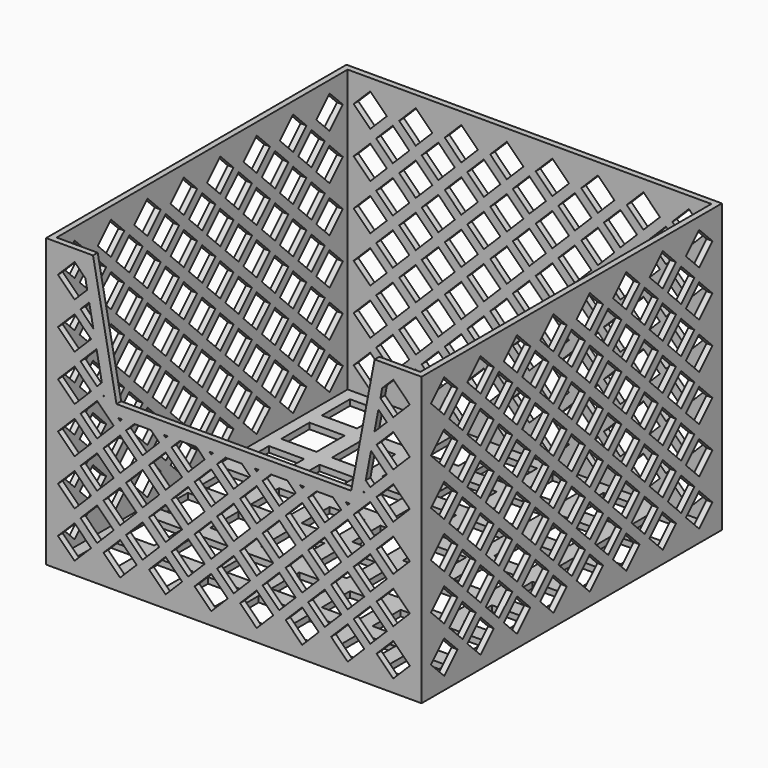
from build123d import *

# Parameters (mm, degrees)
F0_W      = 203.2
F0_H      = 203.2
F1_DEPTH  = 3.175
F2_W      = 203.2
F2_H      = 203.2
F2_W_2    = 196.85
F2_H_2    = 196.85
F3_DEPTH  = 152.4
F5_DEPTH  = 3.175
F7_DEPTH  = 203.201
F9_DEPTH  = 203.201
F11_DEPTH = 203.201
F13_DEPTH = 203.201
F15_DEPTH = 3.175
F16_W     = 19.05
F16_H     = 19.05
F17_DEPTH = 3.176


with BuildPart() as f1:
    # F0 (on Top) → F1 (new body)
    with BuildSketch(Plane.XY):
        Rectangle(F0_W, F0_H)
    extrude(amount=F1_DEPTH)

    # F2 (on face) → F3 (join)
    with BuildSketch(Plane.XY.offset(3.175)):
        Rectangle(F2_W, F2_H)
        Rectangle(F2_W_2, F2_H_2, mode=Mode.SUBTRACT)
    extrude(amount=F3_DEPTH)

    # F4 (on face) → F5 (cut, through all)
    with BuildSketch(Plane.XZ.offset(101.6)):
        Polygon((-63.5, 88.9), (0, 88.9), (63.5, 88.9), (76.2, 155.575), (0, 155.575), (-76.2, 155.575), align=None)
    extrude(amount=-F5_DEPTH, mode=Mode.SUBTRACT)

    # F6 (on face) → F7 (cut, through all)
    with BuildSketch(Plane.YZ.offset(101.6)):
        Polygon((-77.289488, 140.244744), (-86.269744, 149.225), (-95.25, 140.244744), (-86.269744, 131.264488), align=None)
        Polygon((-86.269744, 124.333), (-95.25, 115.352744), (-86.269744, 106.372488), (-77.289488, 115.352744), align=None)
        Polygon((-86.269744, 99.441), (-95.25, 90.460744), (-86.269744, 81.480488), (-77.289488, 90.460744), align=None)
        Polygon((-86.269744, 74.549), (-95.25, 65.568744), (-86.269744, 56.588488), (-77.289488, 65.568744), align=None)
        Polygon((-86.269744, 49.657), (-95.25, 40.676744), (-86.269744, 31.696488), (-77.289488, 40.676744), align=None)
        Polygon((-86.269744, 24.765), (-95.25, 15.784744), (-86.269744, 6.804488), (-77.289488, 15.784744), align=None)
        Polygon((-61.631744, 149.225), (-70.612, 140.244744), (-61.631744, 131.264488), (-52.651488, 140.244744), align=None)
        Polygon((-61.631744, 124.333), (-70.612, 115.352744), (-61.631744, 106.372488), (-52.651488, 115.352744), align=None)
        Polygon((-61.631744, 99.441), (-70.612, 90.460744), (-61.631744, 81.480488), (-52.651488, 90.460744), align=None)
        Polygon((-61.631744, 74.549), (-70.612, 65.568744), (-61.631744, 56.588488), (-52.651488, 65.568744), align=None)
        Polygon((-61.631744, 49.657), (-70.612, 40.676744), (-61.631744, 31.696488), (-52.651488, 40.676744), align=None)
        Polygon((-61.631744, 24.765), (-70.612, 15.784744), (-61.631744, 6.804488), (-52.651488, 15.784744), align=None)
        Polygon((-36.993744, 149.225), (-45.974, 140.244744), (-36.993744, 131.264488), (-28.013488, 140.244744), align=None)
        Polygon((-36.993744, 124.333), (-45.974, 115.352744), (-36.993744, 106.372488), (-28.013488, 115.352744), align=None)
        Polygon((-36.993744, 99.441), (-45.974, 90.460744), (-36.993744, 81.480488), (-28.013488, 90.460744), align=None)
        Polygon((-36.993744, 74.549), (-45.974, 65.568744), (-36.993744, 56.588488), (-28.013488, 65.568744), align=None)
        Polygon((-36.993744, 49.657), (-45.974, 40.676744), (-36.993744, 31.696488), (-28.013488, 40.676744), align=None)
        Polygon((-36.993744, 24.765), (-45.974, 15.784744), (-36.993744, 6.804488), (-28.013488, 15.784744), align=None)
        Polygon((-12.355744, 149.225), (-21.336, 140.244744), (-12.355744, 131.264488), (-3.375488, 140.244744), align=None)
        Polygon((-12.355744, 124.333), (-21.336, 115.352744), (-12.355744, 106.372488), (-3.375488, 115.352744), align=None)
        Polygon((-12.355744, 99.441), (-21.336, 90.460744), (-12.355744, 81.480488), (-3.375488, 90.460744), align=None)
        Polygon((-12.355744, 74.549), (-21.336, 65.568744), (-12.355744, 56.588488), (-3.375488, 65.568744), align=None)
        Polygon((-12.355744, 49.657), (-21.336, 40.676744), (-12.355744, 31.696488), (-3.375488, 40.676744), align=None)
        Polygon((-12.355744, 24.765), (-21.336, 15.784744), (-12.355744, 6.804488), (-3.375488, 15.784744), align=None)
        Polygon((12.282256, 149.225), (3.302, 140.244744), (12.282256, 131.264488), (21.262512, 140.244744), align=None)
        Polygon((12.282256, 124.333), (3.302, 115.352744), (12.282256, 106.372488), (21.262512, 115.352744), align=None)
        Polygon((12.282256, 99.441), (3.302, 90.460744), (12.282256, 81.480488), (21.262512, 90.460744), align=None)
        Polygon((12.282256, 74.549), (3.302, 65.568744), (12.282256, 56.588488), (21.262512, 65.568744), align=None)
        Polygon((12.282256, 49.657), (3.302, 40.676744), (12.282256, 31.696488), (21.262512, 40.676744), align=None)
        Polygon((12.282256, 24.765), (3.302, 15.784744), (12.282256, 6.804488), (21.262512, 15.784744), align=None)
        Polygon((36.920256, 149.225), (27.94, 140.244744), (36.920256, 131.264488), (45.900512, 140.244744), align=None)
        Polygon((36.920256, 124.333), (27.94, 115.352744), (36.920256, 106.372488), (45.900512, 115.352744), align=None)
        Polygon((36.920256, 99.441), (27.94, 90.460744), (36.920256, 81.480488), (45.900512, 90.460744), align=None)
        Polygon((36.920256, 74.549), (27.94, 65.568744), (36.920256, 56.588488), (45.900512, 65.568744), align=None)
        Polygon((36.920256, 49.657), (27.94, 40.676744), (36.920256, 31.696488), (45.900512, 40.676744), align=None)
        Polygon((36.920256, 24.765), (27.94, 15.784744), (36.920256, 6.804488), (45.900512, 15.784744), align=None)
        Polygon((61.558256, 149.225), (52.578, 140.244744), (61.558256, 131.264488), (70.538512, 140.244744), align=None)
        Polygon((61.558256, 124.333), (52.578, 115.352744), (61.558256, 106.372488), (70.538512, 115.352744), align=None)
        Polygon((61.558256, 99.441), (52.578, 90.460744), (61.558256, 81.480488), (70.538512, 90.460744), align=None)
        Polygon((61.558256, 74.549), (52.578, 65.568744), (61.558256, 56.588488), (70.538512, 65.568744), align=None)
        Polygon((61.558256, 49.657), (52.578, 40.676744), (61.558256, 31.696488), (70.538512, 40.676744), align=None)
        Polygon((61.558256, 24.765), (52.578, 15.784744), (61.558256, 6.804488), (70.538512, 15.784744), align=None)
        Polygon((86.196256, 149.225), (77.216, 140.244744), (86.196256, 131.264488), (95.176512, 140.244744), align=None)
        Polygon((86.196256, 124.333), (77.216, 115.352744), (86.196256, 106.372488), (95.176512, 115.352744), align=None)
        Polygon((86.196256, 99.441), (77.216, 90.460744), (86.196256, 81.480488), (95.176512, 90.460744), align=None)
        Polygon((86.196256, 74.549), (77.216, 65.568744), (86.196256, 56.588488), (95.176512, 65.568744), align=None)
        Polygon((86.196256, 49.657), (77.216, 40.676744), (86.196256, 31.696488), (95.176512, 40.676744), align=None)
        Polygon((86.196256, 24.765), (77.216, 15.784744), (86.196256, 6.804488), (95.176512, 15.784744), align=None)
    extrude(amount=-F7_DEPTH, mode=Mode.SUBTRACT)

    # F8 (on face) → F9 (cut, through all)
    with BuildSketch(Plane(origin=(0, 101.6, 0), x_dir=(-1, 0, 0), z_dir=(0, 1, 0))):
        Polygon((-64.843488, 127.798744), (-73.823744, 136.779), (-82.804, 127.798744), (-73.823744, 118.818488), align=None)
        Polygon((-73.823744, 93.926488), (-64.843488, 102.906744), (-73.823744, 111.887), (-82.804, 102.906744), align=None)
        Polygon((-73.823744, 69.034488), (-64.843488, 78.014744), (-73.823744, 86.995), (-82.804, 78.014744), align=None)
        Polygon((-73.823744, 44.142488), (-64.843488, 53.122744), (-73.823744, 62.103), (-82.804, 53.122744), align=None)
        Polygon((-73.823744, 19.250488), (-64.843488, 28.230744), (-73.823744, 37.211), (-82.804, 28.230744), align=None)
        Polygon((-49.185744, 118.818488), (-40.205488, 127.798744), (-49.185744, 136.779), (-58.166, 127.798744), align=None)
        Polygon((-49.185744, 93.926488), (-40.205488, 102.906744), (-49.185744, 111.887), (-58.166, 102.906744), align=None)
        Polygon((-49.185744, 69.034488), (-40.205488, 78.014744), (-49.185744, 86.995), (-58.166, 78.014744), align=None)
        Polygon((-49.185744, 44.142488), (-40.205488, 53.122744), (-49.185744, 62.103), (-58.166, 53.122744), align=None)
        Polygon((-49.185744, 19.250488), (-40.205488, 28.230744), (-49.185744, 37.211), (-58.166, 28.230744), align=None)
        Polygon((-24.547744, 118.818488), (-15.567488, 127.798744), (-24.547744, 136.779), (-33.528, 127.798744), align=None)
        Polygon((-24.547744, 93.926488), (-15.567488, 102.906744), (-24.547744, 111.887), (-33.528, 102.906744), align=None)
        Polygon((-24.547744, 69.034488), (-15.567488, 78.014744), (-24.547744, 86.995), (-33.528, 78.014744), align=None)
        Polygon((-24.547744, 44.142488), (-15.567488, 53.122744), (-24.547744, 62.103), (-33.528, 53.122744), align=None)
        Polygon((-24.547744, 19.250488), (-15.567488, 28.230744), (-24.547744, 37.211), (-33.528, 28.230744), align=None)
        Polygon((0.090256, 118.818488), (9.070512, 127.798744), (0.090256, 136.779), (-8.89, 127.798744), align=None)
        Polygon((0.090256, 93.926488), (9.070512, 102.906744), (0.090256, 111.887), (-8.89, 102.906744), align=None)
        Polygon((0.090256, 69.034488), (9.070512, 78.014744), (0.090256, 86.995), (-8.89, 78.014744), align=None)
        Polygon((0.090256, 44.142488), (9.070512, 53.122744), (0.090256, 62.103), (-8.89, 53.122744), align=None)
        Polygon((0.090256, 19.250488), (9.070512, 28.230744), (0.090256, 37.211), (-8.89, 28.230744), align=None)
        Polygon((24.728256, 118.818488), (33.708512, 127.798744), (24.728256, 136.779), (15.748, 127.798744), align=None)
        Polygon((24.728256, 93.926488), (33.708512, 102.906744), (24.728256, 111.887), (15.748, 102.906744), align=None)
        Polygon((24.728256, 69.034488), (33.708512, 78.014744), (24.728256, 86.995), (15.748, 78.014744), align=None)
        Polygon((24.728256, 44.142488), (33.708512, 53.122744), (24.728256, 62.103), (15.748, 53.122744), align=None)
        Polygon((24.728256, 19.250488), (33.708512, 28.230744), (24.728256, 37.211), (15.748, 28.230744), align=None)
        Polygon((49.366256, 118.818488), (58.346512, 127.798744), (49.366256, 136.779), (40.386, 127.798744), align=None)
        Polygon((49.366256, 93.926488), (58.346512, 102.906744), (49.366256, 111.887), (40.386, 102.906744), align=None)
        Polygon((49.366256, 69.034488), (58.346512, 78.014744), (49.366256, 86.995), (40.386, 78.014744), align=None)
        Polygon((49.366256, 44.142488), (58.346512, 53.122744), (49.366256, 62.103), (40.386, 53.122744), align=None)
        Polygon((49.366256, 19.250488), (58.346512, 28.230744), (49.366256, 37.211), (40.386, 28.230744), align=None)
        Polygon((74.004256, 118.818488), (82.984512, 127.798744), (74.004256, 136.779), (65.024, 127.798744), align=None)
        Polygon((74.004256, 93.926488), (82.984512, 102.906744), (74.004256, 111.887), (65.024, 102.906744), align=None)
        Polygon((74.004256, 69.034488), (82.984512, 78.014744), (74.004256, 86.995), (65.024, 78.014744), align=None)
        Polygon((74.004256, 44.142488), (82.984512, 53.122744), (74.004256, 62.103), (65.024, 53.122744), align=None)
        Polygon((74.004256, 19.250488), (82.984512, 28.230744), (74.004256, 37.211), (65.024, 28.230744), align=None)
    extrude(amount=-F9_DEPTH, mode=Mode.SUBTRACT)

    # F10 (on face) → F11 (cut, through all)
    with BuildSketch(Plane(origin=(0, 101.6, 0), x_dir=(-1, 0, 0), z_dir=(0, 1, 0))):
        Polygon((-77.289488, 140.244744), (-86.269744, 149.225), (-95.25, 140.244744), (-86.269744, 131.264488), align=None)
        Polygon((-95.25, 115.352744), (-86.269744, 106.372488), (-77.289488, 115.352744), (-86.269744, 124.333), align=None)
        Polygon((-95.25, 90.460744), (-86.269744, 81.480488), (-77.289488, 90.460744), (-86.269744, 99.441), align=None)
        Polygon((-95.25, 65.568744), (-86.269744, 56.588488), (-77.289488, 65.568744), (-86.269744, 74.549), align=None)
        Polygon((-95.25, 40.676744), (-86.269744, 31.696488), (-77.289488, 40.676744), (-86.269744, 49.657), align=None)
        Polygon((-95.25, 15.784744), (-86.269744, 6.804488), (-77.289488, 15.784744), (-86.269744, 24.765), align=None)
        Polygon((-70.612, 140.244744), (-61.631744, 131.264488), (-52.651488, 140.244744), (-61.631744, 149.225), align=None)
        Polygon((-70.612, 115.352744), (-61.631744, 106.372488), (-52.651488, 115.352744), (-61.631744, 124.333), align=None)
        Polygon((-70.612, 90.460744), (-61.631744, 81.480488), (-52.651488, 90.460744), (-61.631744, 99.441), align=None)
        Polygon((-70.612, 65.568744), (-61.631744, 56.588488), (-52.651488, 65.568744), (-61.631744, 74.549), align=None)
        Polygon((-70.612, 40.676744), (-61.631744, 31.696488), (-52.651488, 40.676744), (-61.631744, 49.657), align=None)
        Polygon((-70.612, 15.784744), (-61.631744, 6.804488), (-52.651488, 15.784744), (-61.631744, 24.765), align=None)
        Polygon((-45.974, 140.244744), (-36.993744, 131.264488), (-28.013488, 140.244744), (-36.993744, 149.225), align=None)
        Polygon((-45.974, 115.352744), (-36.993744, 106.372488), (-28.013488, 115.352744), (-36.993744, 124.333), align=None)
        Polygon((-45.974, 90.460744), (-36.993744, 81.480488), (-28.013488, 90.460744), (-36.993744, 99.441), align=None)
        Polygon((-45.974, 65.568744), (-36.993744, 56.588488), (-28.013488, 65.568744), (-36.993744, 74.549), align=None)
        Polygon((-45.974, 40.676744), (-36.993744, 31.696488), (-28.013488, 40.676744), (-36.993744, 49.657), align=None)
        Polygon((-45.974, 15.784744), (-36.993744, 6.804488), (-28.013488, 15.784744), (-36.993744, 24.765), align=None)
        Polygon((-21.336, 140.244744), (-12.355744, 131.264488), (-3.375488, 140.244744), (-12.355744, 149.225), align=None)
        Polygon((-21.336, 115.352744), (-12.355744, 106.372488), (-3.375488, 115.352744), (-12.355744, 124.333), align=None)
        Polygon((-21.336, 90.460744), (-12.355744, 81.480488), (-3.375488, 90.460744), (-12.355744, 99.441), align=None)
        Polygon((-21.336, 65.568744), (-12.355744, 56.588488), (-3.375488, 65.568744), (-12.355744, 74.549), align=None)
        Polygon((-21.336, 40.676744), (-12.355744, 31.696488), (-3.375488, 40.676744), (-12.355744, 49.657), align=None)
        Polygon((-21.336, 15.784744), (-12.355744, 6.804488), (-3.375488, 15.784744), (-12.355744, 24.765), align=None)
        Polygon((3.302, 140.244744), (12.282256, 131.264488), (21.262512, 140.244744), (12.282256, 149.225), align=None)
        Polygon((3.302, 115.352744), (12.282256, 106.372488), (21.262512, 115.352744), (12.282256, 124.333), align=None)
        Polygon((3.302, 90.460744), (12.282256, 81.480488), (21.262512, 90.460744), (12.282256, 99.441), align=None)
        Polygon((3.302, 65.568744), (12.282256, 56.588488), (21.262512, 65.568744), (12.282256, 74.549), align=None)
        Polygon((3.302, 40.676744), (12.282256, 31.696488), (21.262512, 40.676744), (12.282256, 49.657), align=None)
        Polygon((3.302, 15.784744), (12.282256, 6.804488), (21.262512, 15.784744), (12.282256, 24.765), align=None)
        Polygon((27.94, 140.244744), (36.920256, 131.264488), (45.900512, 140.244744), (36.920256, 149.225), align=None)
        Polygon((27.94, 115.352744), (36.920256, 106.372488), (45.900512, 115.352744), (36.920256, 124.333), align=None)
        Polygon((27.94, 90.460744), (36.920256, 81.480488), (45.900512, 90.460744), (36.920256, 99.441), align=None)
        Polygon((27.94, 65.568744), (36.920256, 56.588488), (45.900512, 65.568744), (36.920256, 74.549), align=None)
        Polygon((27.94, 40.676744), (36.920256, 31.696488), (45.900512, 40.676744), (36.920256, 49.657), align=None)
        Polygon((27.94, 15.784744), (36.920256, 6.804488), (45.900512, 15.784744), (36.920256, 24.765), align=None)
        Polygon((52.578, 140.244744), (61.558256, 131.264488), (70.538512, 140.244744), (61.558256, 149.225), align=None)
        Polygon((52.578, 115.352744), (61.558256, 106.372488), (70.538512, 115.352744), (61.558256, 124.333), align=None)
        Polygon((52.578, 90.460744), (61.558256, 81.480488), (70.538512, 90.460744), (61.558256, 99.441), align=None)
        Polygon((52.578, 65.568744), (61.558256, 56.588488), (70.538512, 65.568744), (61.558256, 74.549), align=None)
        Polygon((52.578, 40.676744), (61.558256, 31.696488), (70.538512, 40.676744), (61.558256, 49.657), align=None)
        Polygon((52.578, 15.784744), (61.558256, 6.804488), (70.538512, 15.784744), (61.558256, 24.765), align=None)
        Polygon((77.216, 140.244744), (86.196256, 131.264488), (95.176512, 140.244744), (86.196256, 149.225), align=None)
        Polygon((77.216, 115.352744), (86.196256, 106.372488), (95.176512, 115.352744), (86.196256, 124.333), align=None)
        Polygon((77.216, 90.460744), (86.196256, 81.480488), (95.176512, 90.460744), (86.196256, 99.441), align=None)
        Polygon((77.216, 65.568744), (86.196256, 56.588488), (95.176512, 65.568744), (86.196256, 74.549), align=None)
        Polygon((77.216, 40.676744), (86.196256, 31.696488), (95.176512, 40.676744), (86.196256, 49.657), align=None)
        Polygon((77.216, 15.784744), (86.196256, 6.804488), (95.176512, 15.784744), (86.196256, 24.765), align=None)
    extrude(amount=-F11_DEPTH, mode=Mode.SUBTRACT)

    # F12 (on face) → F13 (cut, through all)
    with BuildSketch(Plane.YZ.offset(101.6)):
        Polygon((-64.843488, 127.798744), (-73.823744, 136.779), (-82.804, 127.798744), (-73.823744, 118.818488), align=None)
        Polygon((-73.823744, 111.887), (-82.804, 102.906744), (-73.823744, 93.926488), (-64.843488, 102.906744), align=None)
        Polygon((-73.823744, 86.995), (-82.804, 78.014744), (-73.823744, 69.034488), (-64.843488, 78.014744), align=None)
        Polygon((-73.823744, 62.103), (-82.804, 53.122744), (-73.823744, 44.142488), (-64.843488, 53.122744), align=None)
        Polygon((-73.823744, 37.211), (-82.804, 28.230744), (-73.823744, 19.250488), (-64.843488, 28.230744), align=None)
        Polygon((-49.185744, 136.779), (-58.166, 127.798744), (-49.185744, 118.818488), (-40.205488, 127.798744), align=None)
        Polygon((-49.185744, 111.887), (-58.166, 102.906744), (-49.185744, 93.926488), (-40.205488, 102.906744), align=None)
        Polygon((-49.185744, 86.995), (-58.166, 78.014744), (-49.185744, 69.034488), (-40.205488, 78.014744), align=None)
        Polygon((-49.185744, 62.103), (-58.166, 53.122744), (-49.185744, 44.142488), (-40.205488, 53.122744), align=None)
        Polygon((-49.185744, 37.211), (-58.166, 28.230744), (-49.185744, 19.250488), (-40.205488, 28.230744), align=None)
        Polygon((-24.547744, 136.779), (-33.528, 127.798744), (-24.547744, 118.818488), (-15.567488, 127.798744), align=None)
        Polygon((-24.547744, 111.887), (-33.528, 102.906744), (-24.547744, 93.926488), (-15.567488, 102.906744), align=None)
        Polygon((-24.547744, 86.995), (-33.528, 78.014744), (-24.547744, 69.034488), (-15.567488, 78.014744), align=None)
        Polygon((-24.547744, 62.103), (-33.528, 53.122744), (-24.547744, 44.142488), (-15.567488, 53.122744), align=None)
        Polygon((-24.547744, 37.211), (-33.528, 28.230744), (-24.547744, 19.250488), (-15.567488, 28.230744), align=None)
        Polygon((0.090256, 136.779), (-8.89, 127.798744), (0.090256, 118.818488), (9.070512, 127.798744), align=None)
        Polygon((0.090256, 111.887), (-8.89, 102.906744), (0.090256, 93.926488), (9.070512, 102.906744), align=None)
        Polygon((0.090256, 86.995), (-8.89, 78.014744), (0.090256, 69.034488), (9.070512, 78.014744), align=None)
        Polygon((0.090256, 62.103), (-8.89, 53.122744), (0.090256, 44.142488), (9.070512, 53.122744), align=None)
        Polygon((0.090256, 37.211), (-8.89, 28.230744), (0.090256, 19.250488), (9.070512, 28.230744), align=None)
        Polygon((24.728256, 136.779), (15.748, 127.798744), (24.728256, 118.818488), (33.708512, 127.798744), align=None)
        Polygon((24.728256, 111.887), (15.748, 102.906744), (24.728256, 93.926488), (33.708512, 102.906744), align=None)
        Polygon((24.728256, 86.995), (15.748, 78.014744), (24.728256, 69.034488), (33.708512, 78.014744), align=None)
        Polygon((24.728256, 62.103), (15.748, 53.122744), (24.728256, 44.142488), (33.708512, 53.122744), align=None)
        Polygon((24.728256, 37.211), (15.748, 28.230744), (24.728256, 19.250488), (33.708512, 28.230744), align=None)
        Polygon((49.366256, 136.779), (40.386, 127.798744), (49.366256, 118.818488), (58.346512, 127.798744), align=None)
        Polygon((49.366256, 111.887), (40.386, 102.906744), (49.366256, 93.926488), (58.346512, 102.906744), align=None)
        Polygon((49.366256, 86.995), (40.386, 78.014744), (49.366256, 69.034488), (58.346512, 78.014744), align=None)
        Polygon((49.366256, 62.103), (40.386, 53.122744), (49.366256, 44.142488), (58.346512, 53.122744), align=None)
        Polygon((49.366256, 37.211), (40.386, 28.230744), (49.366256, 19.250488), (58.346512, 28.230744), align=None)
        Polygon((74.004256, 136.779), (65.024, 127.798744), (74.004256, 118.818488), (82.984512, 127.798744), align=None)
        Polygon((74.004256, 111.887), (65.024, 102.906744), (74.004256, 93.926488), (82.984512, 102.906744), align=None)
        Polygon((74.004256, 86.995), (65.024, 78.014744), (74.004256, 69.034488), (82.984512, 78.014744), align=None)
        Polygon((74.004256, 62.103), (65.024, 53.122744), (74.004256, 44.142488), (82.984512, 53.122744), align=None)
        Polygon((74.004256, 37.211), (65.024, 28.230744), (74.004256, 19.250488), (82.984512, 28.230744), align=None)
    extrude(amount=-F13_DEPTH, mode=Mode.SUBTRACT)

    # F14 (on face) → F15 (join)
    with BuildSketch(Plane.XZ.offset(101.6)):
        Polygon((-63.5, 88.9), (-76.2, 155.575), (-82.664166, 155.575), (-68.754643, 82.55), (68.754643, 82.55), (82.43785, 154.386838), (82.43785, 155.575), (76.2, 155.575), (63.5, 88.9), align=None)
    extrude(amount=-F15_DEPTH)

    # F16 (on face) → F17 (cut, through all)
    with BuildSketch(Plane.XY.offset(3.175)):
        with Locations((-82.55, 82.55)):
            Rectangle(F16_W, F16_H)
        with Locations((-82.55, 55.118)):
            Rectangle(F16_W, F16_H)
        with Locations((-82.55, 27.686)):
            Rectangle(F16_W, F16_H)
        with Locations((-82.55, 0.254)):
            Rectangle(F16_W, F16_H)
        with Locations((-82.55, -27.178)):
            Rectangle(F16_W, F16_H)
        with Locations((-82.55, -54.61)):
            Rectangle(F16_W, F16_H)
        with Locations((-82.55, -82.042)):
            Rectangle(F16_W, F16_H)
        with Locations((-55.118, 82.55)):
            Rectangle(F16_W, F16_H)
        with Locations((-55.118, 55.118)):
            Rectangle(F16_W, F16_H)
        with Locations((-55.118, 27.686)):
            Rectangle(F16_W, F16_H)
        with Locations((-55.118, 0.254)):
            Rectangle(F16_W, F16_H)
        with Locations((-55.118, -27.178)):
            Rectangle(F16_W, F16_H)
        with Locations((-55.118, -54.61)):
            Rectangle(F16_W, F16_H)
        with Locations((-55.118, -82.042)):
            Rectangle(F16_W, F16_H)
        with Locations((-27.686, 82.55)):
            Rectangle(F16_W, F16_H)
        with Locations((-27.686, 55.118)):
            Rectangle(F16_W, F16_H)
        with Locations((-27.686, 27.686)):
            Rectangle(F16_W, F16_H)
        with Locations((-27.686, 0.254)):
            Rectangle(F16_W, F16_H)
        with Locations((-27.686, -27.178)):
            Rectangle(F16_W, F16_H)
        with Locations((-27.686, -54.61)):
            Rectangle(F16_W, F16_H)
        with Locations((-27.686, -82.042)):
            Rectangle(F16_W, F16_H)
        with Locations((-0.254, 82.55)):
            Rectangle(F16_W, F16_H)
        with Locations((-0.254, 55.118)):
            Rectangle(F16_W, F16_H)
        with Locations((-0.254, 27.686)):
            Rectangle(F16_W, F16_H)
        with Locations((-0.254, 0.254)):
            Rectangle(F16_W, F16_H)
        with Locations((-0.254, -27.178)):
            Rectangle(F16_W, F16_H)
        with Locations((-0.254, -54.61)):
            Rectangle(F16_W, F16_H)
        with Locations((-0.254, -82.042)):
            Rectangle(F16_W, F16_H)
        with Locations((27.178, 82.55)):
            Rectangle(F16_W, F16_H)
        with Locations((27.178, 55.118)):
            Rectangle(F16_W, F16_H)
        with Locations((27.178, 27.686)):
            Rectangle(F16_W, F16_H)
        with Locations((27.178, 0.254)):
            Rectangle(F16_W, F16_H)
        with Locations((27.178, -27.178)):
            Rectangle(F16_W, F16_H)
        with Locations((27.178, -54.61)):
            Rectangle(F16_W, F16_H)
        with Locations((27.178, -82.042)):
            Rectangle(F16_W, F16_H)
        with Locations((54.61, 82.55)):
            Rectangle(F16_W, F16_H)
        with Locations((54.61, 55.118)):
            Rectangle(F16_W, F16_H)
        with Locations((54.61, 27.686)):
            Rectangle(F16_W, F16_H)
        with Locations((54.61, 0.254)):
            Rectangle(F16_W, F16_H)
        with Locations((54.61, -27.178)):
            Rectangle(F16_W, F16_H)
        with Locations((54.61, -54.61)):
            Rectangle(F16_W, F16_H)
        with Locations((54.61, -82.042)):
            Rectangle(F16_W, F16_H)
        with Locations((82.042, 82.55)):
            Rectangle(F16_W, F16_H)
        with Locations((82.042, 55.118)):
            Rectangle(F16_W, F16_H)
        with Locations((82.042, 27.686)):
            Rectangle(F16_W, F16_H)
        with Locations((82.042, 0.254)):
            Rectangle(F16_W, F16_H)
        with Locations((82.042, -27.178)):
            Rectangle(F16_W, F16_H)
        with Locations((82.042, -54.61)):
            Rectangle(F16_W, F16_H)
        with Locations((82.042, -82.042)):
            Rectangle(F16_W, F16_H)
    extrude(amount=-F17_DEPTH, mode=Mode.SUBTRACT)


solid = f1.part
